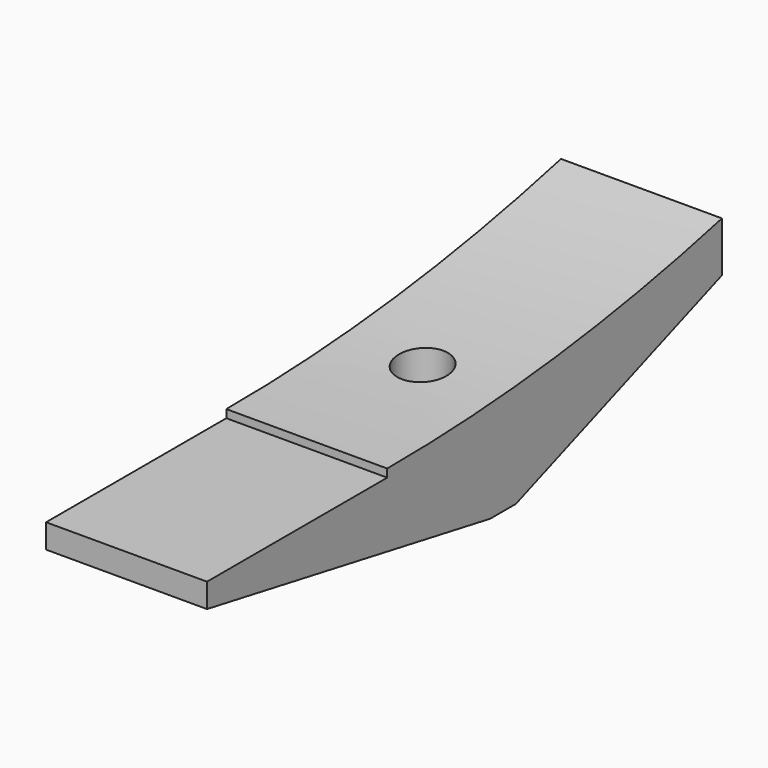
from build123d import *

# Parameters (mm, degrees)
CYLINDER1272_R     = 0.8
CYLINDER1272_DEPTH = 10
CYLINDER1273_W     = 55
CYLINDER1273_H     = 60
CYLINDER1273_ANGLE = 80
BOX540_W           = 10
BOX540_H           = 20
BOX540_DEPTH       = 6
BOX539_W           = 5
BOX539_H           = 20
BOX539_DEPTH       = 6
CHAMFER034_SIZE2   = 8
CHAMFER034_SIZE    = 3
CHAMFER035_SIZE2   = 2
CHAMFER035_SIZE    = 11


with BuildPart() as cylinder1443:
    # Cylinder1272 → Cylinder1272 (new body)
    with BuildSketch(Plane(origin=(436.5, 89.5, 42.3), x_dir=(1, 0, 0), z_dir=(0, 0, 1))):
        Circle(CYLINDER1272_R)
    extrude(amount=CYLINDER1272_DEPTH)


with BuildPart() as cylinder1273:
    # Cylinder1273 → Cylinder1273 (revolve)
    with BuildSketch(Plane(origin=(432, 85, 100), x_dir=(0, 0, -1), z_dir=(0, -1, 0))):
        with Locations((27.5, 30)):
            Rectangle(CYLINDER1273_W, CYLINDER1273_H)
    revolve(axis=Axis((432, 85, 100), (1, 0, 0)), revolution_arc=CYLINDER1273_ANGLE)


with BuildPart() as fusion248002050161:
    # Box540 → Box540 (new body)
    with BuildSketch(Plane(origin=(434, 65, 44.75), x_dir=(1, 0, 0), z_dir=(0, 0, 1))):
        with Locations((5, 10)):
            Rectangle(BOX540_W, BOX540_H)
    extrude(amount=BOX540_DEPTH)

    # Fusion248002050161: union Cylinder1273
    add(cylinder1273.part)


with BuildPart() as bucket_tooth:
    # Box539 → Box539 (new body)
    with BuildSketch(Plane(origin=(434, 78, 42), x_dir=(1, 0, 0), z_dir=(0, 0, 1))):
        with Locations((2.5, 10)):
            Rectangle(BOX539_W, BOX539_H)
    extrude(amount=BOX539_DEPTH)

    # Cut014288: cut Fusion248002050161
    add(fusion248002050161.part, mode=Mode.SUBTRACT)

    # Chamfer034
    chamfer034_edges = [bucket_tooth.edges().sort_by_distance(p)[0] for p in [
        (436.5, 98, 42),
    ]]
    chamfer034_side = bucket_tooth.faces().sort_by_distance((436.5, 98, 44.279222))[0]
    chamfer(chamfer034_edges, length=CHAMFER034_SIZE, length2=CHAMFER034_SIZE2, reference=chamfer034_side)

    # Chamfer035
    chamfer035_edges = [bucket_tooth.edges().sort_by_distance(p)[0] for p in [
        (436.5, 78, 42),
    ]]
    chamfer035_side = bucket_tooth.faces().sort_by_distance((436.5, 84, 42))[0]
    chamfer(chamfer035_edges, length=CHAMFER035_SIZE, length2=CHAMFER035_SIZE2, reference=chamfer035_side)

    # Cut014289: cut Cylinder1443
    add(cylinder1443.part, mode=Mode.SUBTRACT)


solid = bucket_tooth.part
